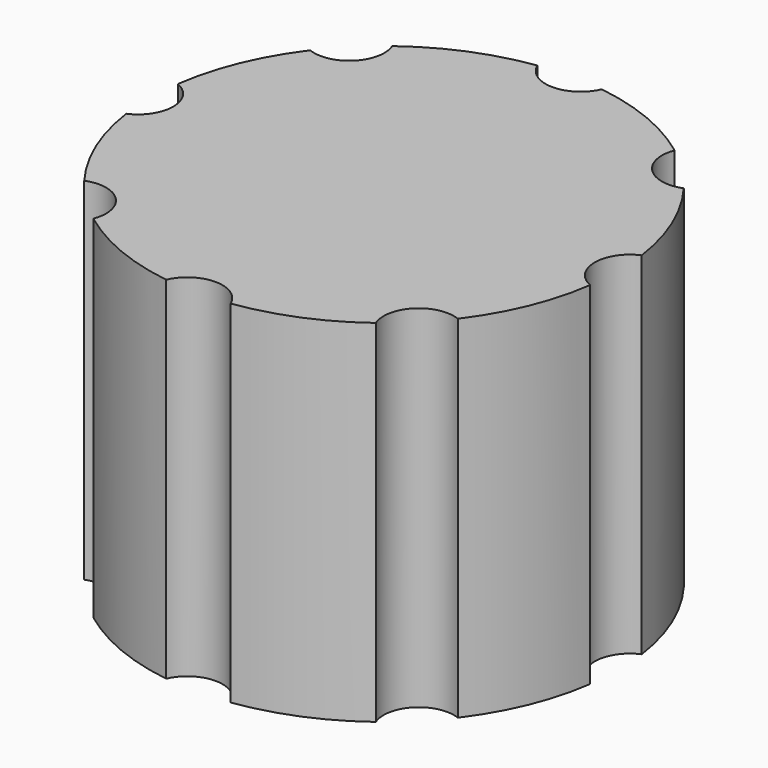
from build123d import *

# Parameters (mm, degrees)
CYLINDER001_R     = 1.5
CYLINDER001_DEPTH = 19
ARRAY_COUNT       = 8
CYLINDER_R        = 10
CYLINDER_DEPTH    = 15


with BuildPart() as obj1:
    # Cylinder001 → Cylinder001 (new body)
    with BuildSketch(Plane(origin=(10.5, 0, -2), x_dir=(1, 0, 0), z_dir=(0, 0, 1))):
        Circle(CYLINDER001_R)
    extrude(amount=CYLINDER001_DEPTH)

    # Array: obj1 ×8 about axis
    array_axis = Axis((0, 0, 0), (0, 0, 1))


with BuildPart() as obj1_1:
    add(obj1.part)
    for i in range(1, ARRAY_COUNT):
        add(obj1.part.rotate(array_axis, i * 360 / ARRAY_COUNT))


with BuildPart() as cut:
    # Cylinder → Cylinder (new body)
    with BuildSketch(Plane.XY):
        Circle(CYLINDER_R)
    extrude(amount=CYLINDER_DEPTH)

    # Cut: cut obj1
    add(obj1_1.part, mode=Mode.SUBTRACT)


solid = cut.part
